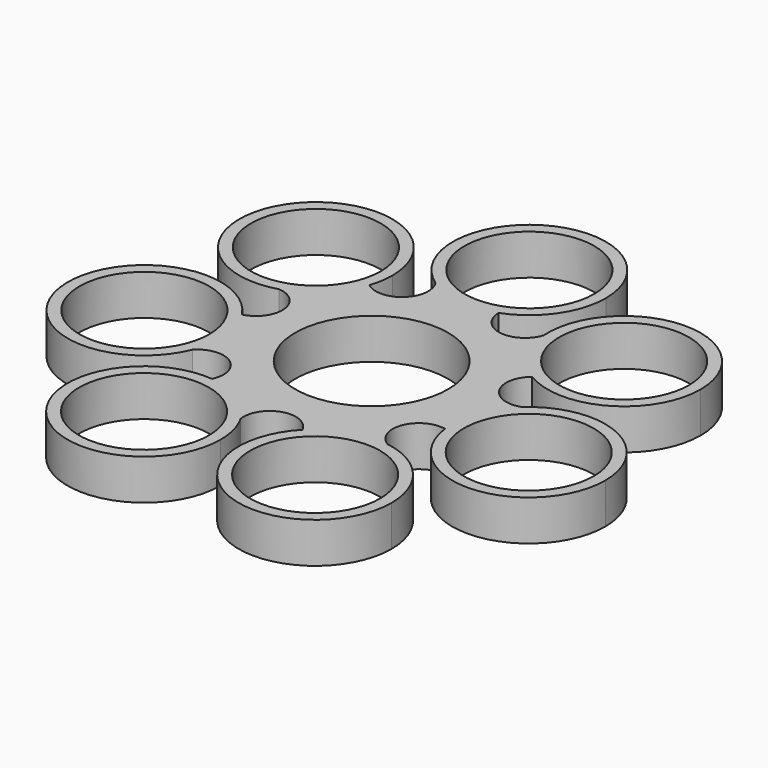
from build123d import *

# Parameters (mm, degrees)
F0_R     = 11.2
F0_R_2   = 13.2
F1_DEPTH = 7


with BuildPart() as f1:
    # F0 (on Top) → F1 (new body)
    with BuildSketch(Plane.XY):
        with BuildLine():
            ThreePointArc((39.797009, 21.210407), (26.161491, 34.403221), (13.425748, 20.339845))
            ThreePointArc((13.425748, 20.339845), (15.32438, 14.342523), (19.783205, 9.905007))
            ThreePointArc((19.783205, 9.905007), (33.089227, 9.717317), (39.797009, 21.210407))
        make_face()
        with Locations((26.597009, 21.210407)):
            Circle(F0_R, mode=Mode.SUBTRACT)
        with BuildLine():
            ThreePointArc((4.59058, 21.642803), (-1.658842, 20.9235), (-7.531514, 23.178358))
            ThreePointArc((-7.531514, 23.178358), (-8.192617, 17.343681), (-14.058845, 17.083127))
            ThreePointArc((-14.058845, 17.083127), (-17.392922, 11.748654), (-22.817392, 8.563095))
            ThreePointArc((-22.817392, 8.563095), (-18.667849, 4.408362), (-22.121673, -0.340492))
            ThreePointArc((-22.121673, -0.340492), (-20.51634, -3.797916), (-19.965928, -7.569907))
            ThreePointArc((-19.965928, -7.569907), (-20.206974, -10.080985), (-20.921309, -12.500353))
            ThreePointArc((-20.921309, -12.500353), (-15.08581, -11.846544), (-13.52643, -17.507714))
            ThreePointArc((-13.52643, -17.507714), (-7.583802, -19.571166), (-3.271053, -24.150781))
            ThreePointArc((-3.271053, -24.150781), (-0.143848, -19.18076), (5.254491, -21.49127))
            ThreePointArc((5.254491, -21.49127), (10.572931, -18.131678), (16.842372, -17.615178))
            ThreePointArc((16.842372, -17.615178), (14.906434, -12.071473), (20.078673, -9.291461))
            ThreePointArc((20.078673, -9.291461), (20.768031, -3.038666), (24.273148, 2.185013))
            ThreePointArc((24.273148, 2.185013), (18.731868, 4.127879), (19.783205, 9.905007))
            ThreePointArc((19.783205, 9.905007), (15.32438, 14.342523), (13.425748, 20.339845))
            ThreePointArc((13.425748, 20.339845), (8.451822, 17.218854), (4.59058, 21.642803))
        make_face()
        Circle(F0_R_2, mode=Mode.SUBTRACT)
        with BuildLine():
            ThreePointArc((27.960227, -30.649926), (24.803242, -22.08384), (16.842372, -17.615178))
            ThreePointArc((16.842372, -17.615178), (10.572931, -18.131678), (5.254491, -21.49127))
            ThreePointArc((5.254491, -21.49127), (9.822399, -42.891571), (27.960227, -30.649926))
        make_face()
        with Locations((14.760227, -30.649926)):
            Circle(F0_R, mode=Mode.SUBTRACT)
        with BuildLine():
            ThreePointArc((-3.271053, -24.150781), (-7.583802, -19.571166), (-13.52643, -17.507714))
            ThreePointArc((-13.52643, -17.507714), (-24.520506, -39.536824), (-1.560227, -30.649926))
            ThreePointArc((-1.560227, -30.649926), (-1.995097, -27.28965), (-3.271053, -24.150781))
        make_face()
        with Locations((-14.760227, -30.649926)):
            Circle(F0_R, mode=Mode.SUBTRACT)
        with BuildLine():
            ThreePointArc((46.365928, -7.569907), (38.497687, 4.505372), (24.273148, 2.185013))
            ThreePointArc((24.273148, 2.185013), (20.768031, -3.038666), (20.078673, -9.291461))
            ThreePointArc((20.078673, -9.291461), (34.028549, -20.74169), (46.365928, -7.569907))
        make_face()
        with Locations((33.165928, -7.569907)):
            Circle(F0_R, mode=Mode.SUBTRACT)
        with BuildLine():
            ThreePointArc((4.59058, 21.642803), (10.835951, 26.480803), (13.2, 34.018852))
            ThreePointArc((13.2, 34.018852), (-6.116536, 45.716202), (-7.531514, 23.178358))
            ThreePointArc((-7.531514, 23.178358), (-1.658842, 20.9235), (4.59058, 21.642803))
        make_face()
        with Locations((0, 34.018852)):
            Circle(F0_R, mode=Mode.SUBTRACT)
        with BuildLine():
            ThreePointArc((-22.817392, 8.563095), (-17.392922, 11.748654), (-14.058845, 17.083127))
            ThreePointArc((-14.058845, 17.083127), (-13.563519, 19.120403), (-13.397009, 21.210407))
            ThreePointArc((-13.397009, 21.210407), (-37.183107, 29.09549), (-22.817392, 8.563095))
        make_face()
        with Locations((-26.597009, 21.210407)):
            Circle(F0_R, mode=Mode.SUBTRACT)
        with BuildLine():
            ThreePointArc((-19.965928, -7.569907), (-20.51634, -3.797916), (-22.121673, -0.340492))
            ThreePointArc((-22.121673, -0.340492), (-46.302079, -8.866646), (-20.921309, -12.500353))
            ThreePointArc((-20.921309, -12.500353), (-20.206974, -10.080985), (-19.965928, -7.569907))
        make_face()
        with Locations((-33.165928, -7.569907)):
            Circle(F0_R, mode=Mode.SUBTRACT)
    extrude(amount=F1_DEPTH)


solid = f1.part
